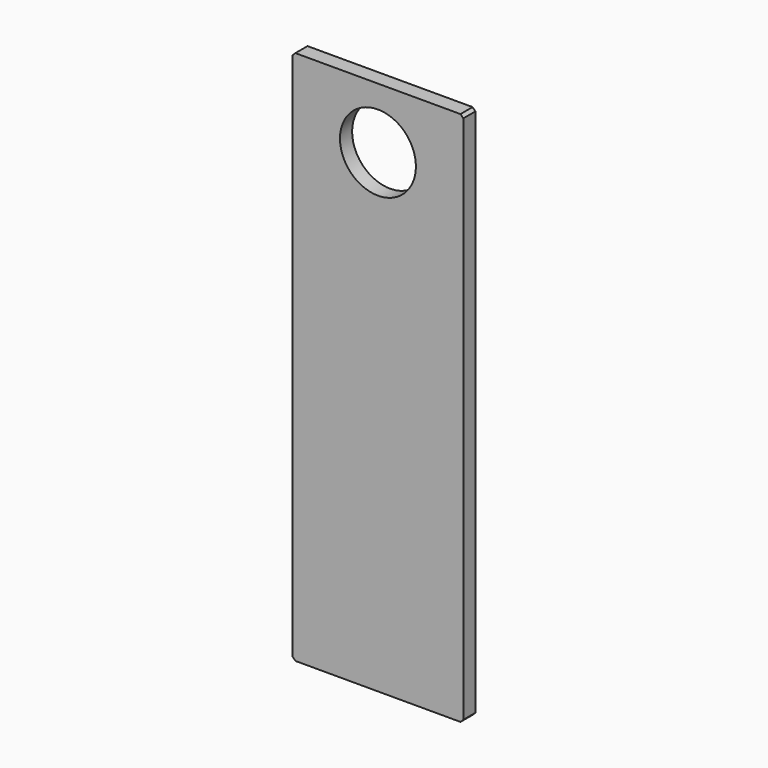
from build123d import *

# Parameters (mm, degrees)
F0_W     = 45.72
F0_H     = 143.256
F1_DEPTH = 4.064
F2_SIZE2 = 0.762
F2_SIZE  = 0.762
F4_D     = 20.32


with BuildPart() as f1:
    # F0 (on Front) → F1 (new body)
    with BuildSketch(Plane.XZ):
        Rectangle(F0_W, F0_H)
    extrude(amount=F1_DEPTH)

    # F2
    f2_edges = [f1.edges().sort_by_distance(p)[0] for p in [
        (22.86, -2.032, 71.628),
        (-22.86, -2.032, 71.628),
        (-22.86, -2.032, -71.628),
        (22.86, -2.032, -71.628),
    ]]
    chamfer(f2_edges, length=F2_SIZE, length2=F2_SIZE2)

    # F4 (through all)
    with Locations(Plane.XZ.offset(4.064)):
        with Locations((0, 55.372)):
            Hole(F4_D / 2)


solid = f1.part
